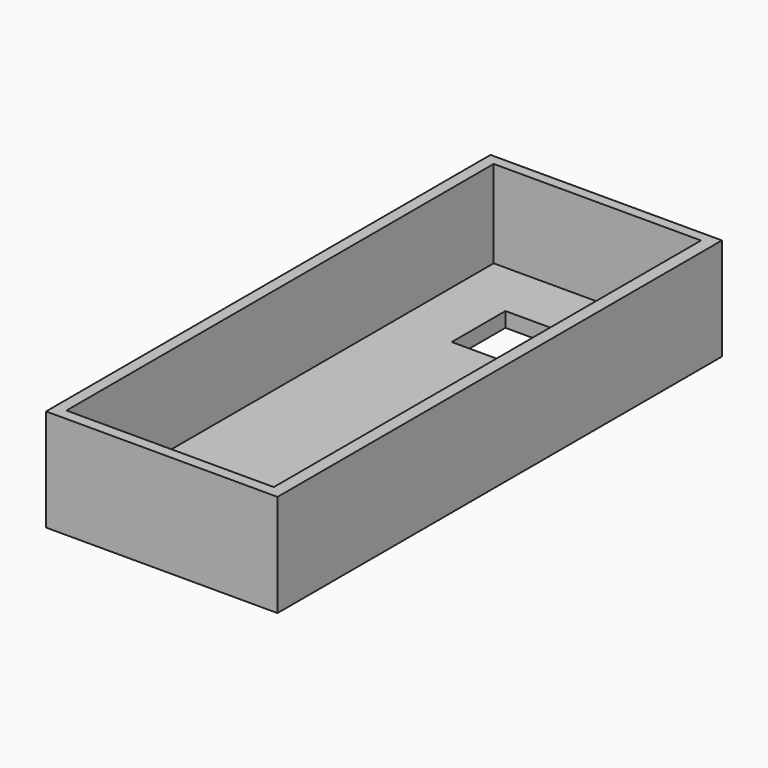
from build123d import *

# Parameters (mm, degrees)
F0_W     = 50
F0_H     = 120
F1_DEPTH = 22.1
F2_W     = 44.786031
F2_H     = 115.363243
F3_DEPTH = 18.9
F4_W     = 16.371712
F4_H     = 14.506579
F5_DEPTH = 3.2


with BuildPart() as f1:
    # F0 (on Top) → F1 (new body)
    with BuildSketch(Plane.XY):
        with Locations((25, 60)):
            Rectangle(F0_W, F0_H)
    extrude(amount=F1_DEPTH)

    # F2 (on face) → F3 (cut)
    with BuildSketch(Plane.XY.offset(22.1)):
        with Locations((24.874761, 60.085734)):
            Rectangle(F2_W, F2_H)
    extrude(amount=-F3_DEPTH, mode=Mode.SUBTRACT)

    # F4 (on face) → F5 (cut, through all)
    with BuildSketch(Plane.XY.offset(3.2)):
        with Locations((23.106907, 98.141447)):
            Rectangle(F4_W, F4_H)
    extrude(amount=-F5_DEPTH, mode=Mode.SUBTRACT)


solid = f1.part
